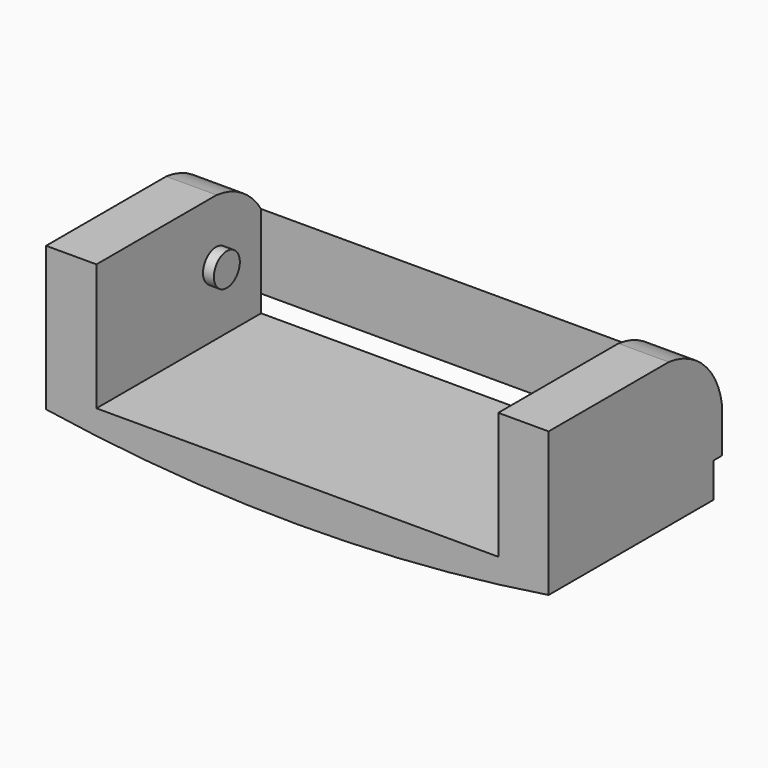
from build123d import *

# Parameters (mm, degrees)
F1_DEPTH  = 25.4
F0_W      = 47.117
F0_H      = 14.859
F2_DEPTH  = 1.27
F4_DEPTH  = 1.27
F5_R      = 1.905
F6_DEPTH  = 1.27
F7_R      = 1.905
F8_DEPTH  = 1.27
F10_DEPTH = 63.5


with BuildPart() as f1:
    # F0 (on Front) → F1 (new body)
    with BuildSketch(Plane.XZ):
        with BuildLine():
            ThreePointArc((-58.928, 0), (-29.464, -2.286), (0, 0))
            Line((0, 0), (0, 16.891))
            Line((0, 16.891), (-5.9055, 16.891))
            Line((-5.9055, 16.891), (-5.9055, 2.032))
            Line((-5.9055, 2.032), (-53.0225, 2.032))
            Line((-53.0225, 2.032), (-53.0225, 16.891))
            Line((-53.0225, 16.891), (-58.928, 16.891))
            Line((-58.928, 16.891), (-58.928, 0))
        make_face()
    extrude(amount=F1_DEPTH)

    # F0 (on Front) → F2 (join)
    with BuildSketch(Plane.XZ):
        with Locations((-29.464, 9.4615)):
            Rectangle(F0_W, F0_H)
    extrude(amount=F2_DEPTH)

    # F3 (on face) → F4 (cut)
    with BuildSketch(Plane(origin=(0, 0, 0), x_dir=(-1, 0, 0), z_dir=(0, 1, 0))):
        with BuildLine():
            Line((58.928, 4.064), (0, 4.064))
            Line((0, 4.064), (0, 0))
            ThreePointArc((0, 0), (29.464, -2.286), (58.928, 0))
            Line((58.928, 0), (58.928, 4.064))
        make_face()
    extrude(amount=-F4_DEPTH, mode=Mode.SUBTRACT)

    # F5 (on face) → F6 (join)
    with BuildSketch(Plane(origin=(-5.9055, 0, 0), x_dir=(0, -1, 0), z_dir=(-1, 0, 0))):
        with Locations((7.874, 9.652)):
            Circle(F5_R)
    extrude(amount=F6_DEPTH)

    # F7 (on face) → F8 (join)
    with BuildSketch(Plane.YZ.offset(-53.0225)):
        with Locations((-7.874, 9.652)):
            Circle(F7_R)
    extrude(amount=F8_DEPTH)

    # F9 (on face) → F10 (cut)
    with BuildSketch(Plane.YZ):
        with BuildLine():
            ThreePointArc((-7.7890837565, 16.891), (-2.606552262, 14.45208016), (0, 9.3518009536))
            Line((0, 9.3518009536), (0, 16.891))
            Line((0, 16.891), (-7.7890837565, 16.891))
        make_face()
    extrude(amount=-F10_DEPTH, mode=Mode.SUBTRACT)


solid = f1.part
